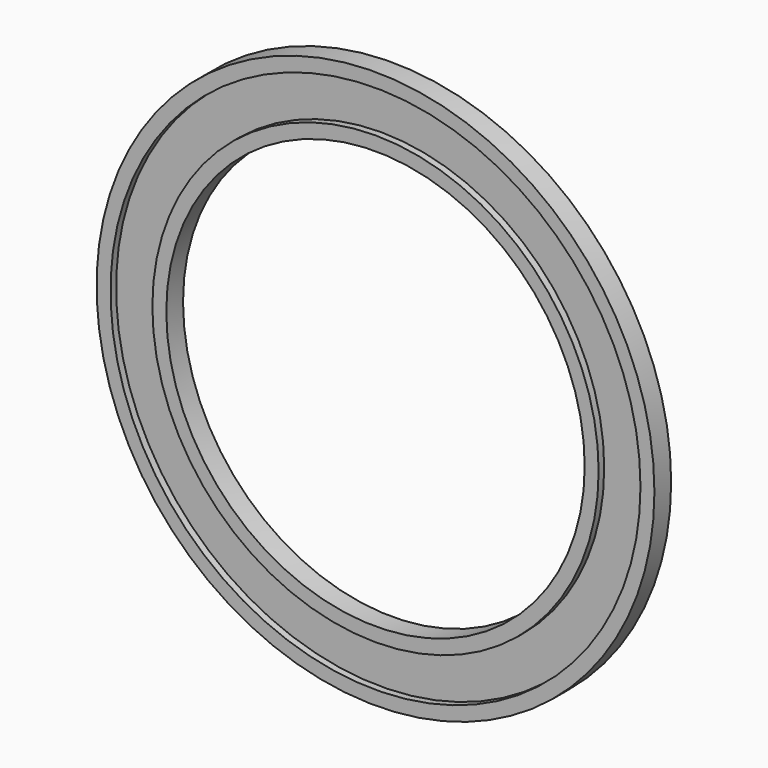
from build123d import *

# Parameters (mm, degrees)
F0_R     = 50.8
F0_R_2   = 38.1
F1_DEPTH = 1.905
F2_T     = -2.54


with BuildPart() as f1:
    # F0 (on Front) → F1 (new body, symmetric)
    with BuildSketch(Plane.XZ):
        Circle(F0_R)
        Circle(F0_R_2, mode=Mode.SUBTRACT)
    extrude(amount=F1_DEPTH, both=True)

    # F2
    f2_openings = [f1.faces().sort_by_distance(p)[0] for p in [
        (-49.363159, -1.905, 0),
    ]]
    offset(amount=F2_T, openings=f2_openings)


solid = f1.part
